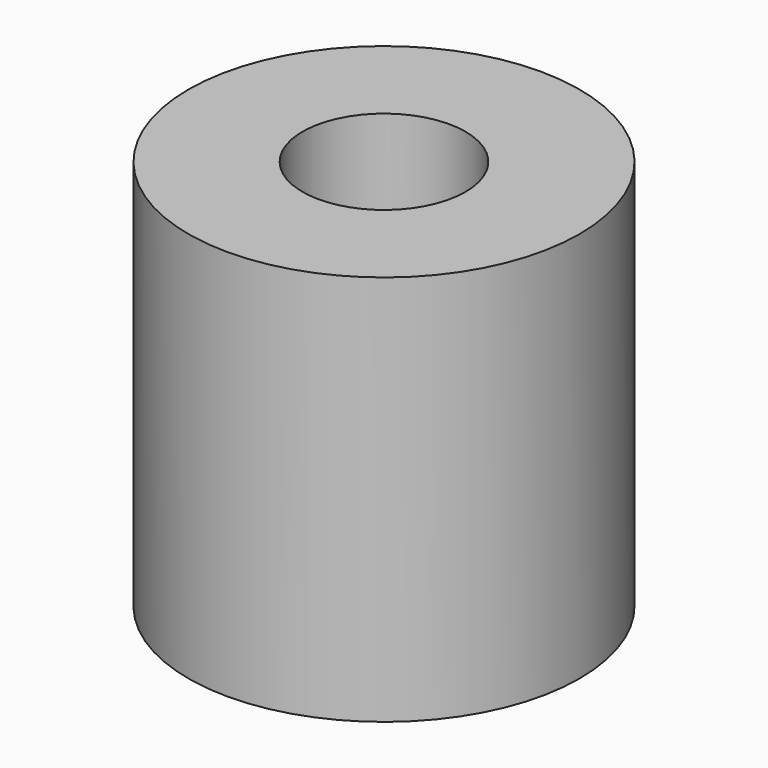
from build123d import *

# Parameters (mm, degrees)
CYLINDER021_R     = 1.25
CYLINDER021_DEPTH = 5
CYLINDER020_R     = 3
CYLINDER020_DEPTH = 6


with BuildPart() as obj1:
    # Cylinder021 → Cylinder021 (new body)
    with BuildSketch(Plane(origin=(59, 14, 3), x_dir=(1, 0, 0), z_dir=(0, 0, 1))):
        Circle(CYLINDER021_R)
    extrude(amount=CYLINDER021_DEPTH)


with BuildPart() as h_cut008:
    # Cylinder020 → Cylinder020 (new body)
    with BuildSketch(Plane(origin=(59, 14, 0), x_dir=(1, 0, 0), z_dir=(0, 0, 1))):
        Circle(CYLINDER020_R)
    extrude(amount=CYLINDER020_DEPTH)

    # Cut008: cut obj1
    add(obj1.part, mode=Mode.SUBTRACT)


with BuildPart() as h_cut008_1:
    # Cut008 placement: moved
    add(h_cut008.part.moved(Location((-45, 20.5, 0))))


solid = h_cut008_1.part
